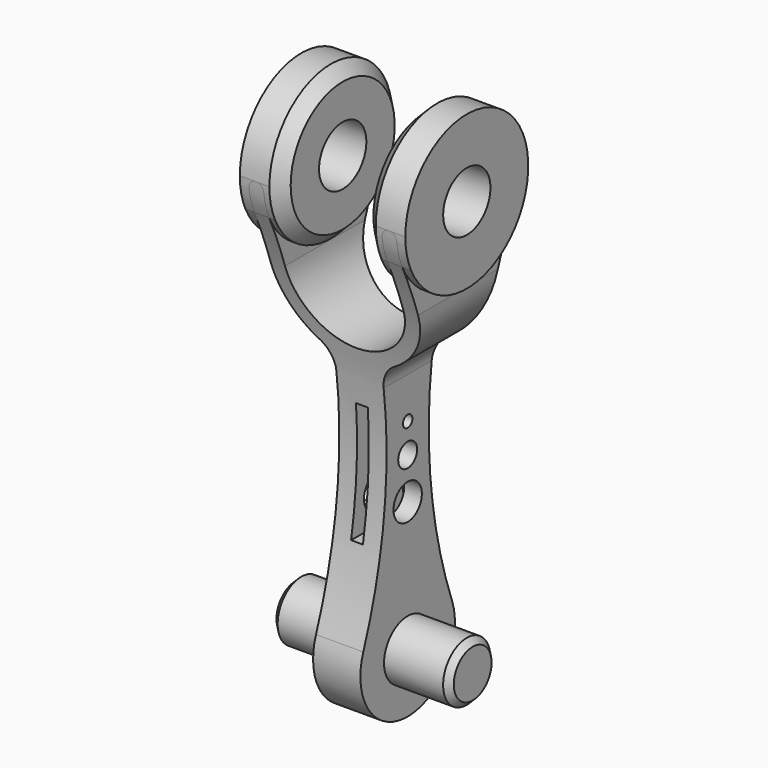
from build123d import *

# Parameters (mm, degrees)
F1_DEPTH  = 19.05
F3_R      = 16.51
F4_DEPTH  = 17.78
F2_R      = 6.35
F6_DEPTH  = 38.1
F5_W      = 17.78
F5_H      = 38.1
F7_DEPTH  = 19.05
F8_SIZE   = 2.54
F10_DEPTH = 5.08
F11_R     = 6.35
F12_DEPTH = 19.05
F13_SIZE  = 1.27
F15_DEPTH = 38.1
F16_W     = 2.54
F16_H     = 25.4
F17_DEPTH = 25.4
F18_R     = 3.81
F18_R_2   = 2.54
F18_R_3   = 1.27
F19_DEPTH = 12.7
F20_ANGLE = 179.9946913403


with BuildPart() as f1:
    # F0 (on Front) → F1 (new body, symmetric)
    with BuildSketch(Plane.XZ):
        with BuildLine():
            ThreePointArc((-5.08, -13.9496366999), (-5.9049678847, -17.0795760164), (-8.1655181496, -19.3962556739))
            ThreePointArc((-8.1655181496, -19.3962556739), (-13.8198807904, -25.1910159629), (-15.8833905736, -33.02))
            Line((-15.8833905736, -33.02), (-15.8833905736, -49.276))
            ThreePointArc((-15.8833905736, -49.276), (-15.4370213081, -50.3536307345), (-14.3593905736, -50.8))
            Line((-14.3593905736, -50.8), (-14.224, -50.8))
            ThreePointArc((-14.224, -50.8), (-13.1463692655, -50.3536307345), (-12.7, -49.276))
            Line((-12.7, -49.276), (-12.7, -33.02))
            ThreePointArc((-12.7, -33.02), (0, -20.32), (12.7, -33.02))
            Line((12.7, -33.02), (12.7, -49.276))
            ThreePointArc((12.7, -49.276), (13.1463692655, -50.3536307345), (14.224, -50.8))
            Line((14.224, -50.8), (14.3593905736, -50.8))
            ThreePointArc((14.3593905736, -50.8), (15.4370213081, -50.3536307345), (15.8833905736, -49.276))
            Line((15.8833905736, -49.276), (15.8833905736, -33.02))
            ThreePointArc((15.8833905736, -33.02), (13.8198807904, -25.1910159629), (8.1655181496, -19.3962556739))
            ThreePointArc((8.1655181496, -19.3962556739), (5.9049678847, -17.0795760164), (5.08, -13.9496366999))
            Line((5.08, -13.9496366999), (5.08, 15.0491094791))
            Line((5.08, 15.0491094791), (-5.08, 15.0491094791))
            Line((-5.08, 15.0491094791), (-5.08, -13.9496366999))
        make_face()
    extrude(amount=F1_DEPTH, both=True)

    # F3 (on Right) → F4 (join, symmetric)
    with BuildSketch(Plane.YZ):
        with Locations((0, -50.8)):
            Circle(F3_R)
    extrude(amount=F4_DEPTH, both=True)

    # F2 (on Right) → F6 (cut, symmetric)
    with BuildSketch(Plane.YZ):
        with Locations((0, -50.8)):
            Circle(F2_R)
    extrude(amount=F6_DEPTH, both=True, mode=Mode.SUBTRACT)

    # F5 (on Front) → F7 (cut, symmetric)
    with BuildSketch(Plane.XZ):
        with Locations((0, -50.8)):
            Rectangle(F5_W, F5_H)
    extrude(amount=F7_DEPTH, both=True, mode=Mode.SUBTRACT)

    # F8
    f8_edges = [f1.edges().sort_by_distance(p)[0] for p in [
        (-8.89, -16.51, -50.8),
        (8.89, -16.51, -50.8),
    ]]
    chamfer(f8_edges, length=F8_SIZE)

    # F9 (on Right) → F10 (join, symmetric)
    with BuildSketch(Plane.YZ):
        with BuildLine():
            Line((19.0499954742, 12.6868685902), (19.0499954742, 38.0868685902))
            ThreePointArc((19.0499954742, 38.0868685902), (0, 57.15), (-19.0499954742, 38.0868685902))
            Line((-19.0499954742, 38.0868685902), (-19.0499954742, 12.6868685902))
            Line((-19.0499954742, 12.6868685902), (19.0499954742, 12.6868685902))
        make_face()
    extrude(amount=F10_DEPTH, both=True)

    # F11 (on Right) → F12 (join, symmetric)
    with BuildSketch(Plane.YZ):
        with Locations((0, 38.1)):
            Circle(F11_R)
    extrude(amount=F12_DEPTH, both=True)

    # F13
    f13_edges = [f1.edges().sort_by_distance(p)[0] for p in [
        (-19.05, -6.35, 38.1),
        (19.05, -6.35, 38.1),
    ]]
    chamfer(f13_edges, length=F13_SIZE)

    # F14 (on Right) → F15 (intersect, symmetric)
    with BuildSketch(Plane.YZ):
        with BuildLine():
            ThreePointArc((14.9945833541, -43.8904001536), (5.7486490124, -5.3934679933), (11.918771384, 33.714468254))
            ThreePointArc((11.918771384, 33.714468254), (0, 50.8), (-11.918771384, 33.714468254))
            ThreePointArc((-11.918771384, 33.714468254), (-5.7486490124, -5.3934679933), (-14.9945833541, -43.8904001536))
            ThreePointArc((-14.9945833541, -43.8904001536), (0, -67.31), (14.9945833541, -43.8904001536))
        make_face()
    extrude(amount=F15_DEPTH, both=True, mode=Mode.INTERSECT)

    # F16 (on Front) → F17 (cut, symmetric)
    with BuildSketch(Plane.XZ):
        with Locations((0, 3.8303633001)):
            Rectangle(F16_W, F16_H)
    extrude(amount=F17_DEPTH, both=True, mode=Mode.SUBTRACT)

    # F18 (on Right) → F19 (cut, symmetric)
    with BuildSketch(Plane.YZ):
        with Locations((0, 10.16)):
            Circle(F18_R)
        with Locations((0, 1.27)):
            Circle(F18_R_2)
        with Locations((0, -5.08)):
            Circle(F18_R_3)
    extrude(amount=F19_DEPTH, both=True, mode=Mode.SUBTRACT)


with BuildPart() as f1_1:
    # F20: moved
    add(f1.part.rotate(Axis((19.05, 0, 38.1), (1, 0, 0)), F20_ANGLE))


with BuildPart() as f1_2:
    # F22: moved
    add(f1_1.part.moved(Location((0, 0, -126.9999996184))))


solid = f1_2.part
